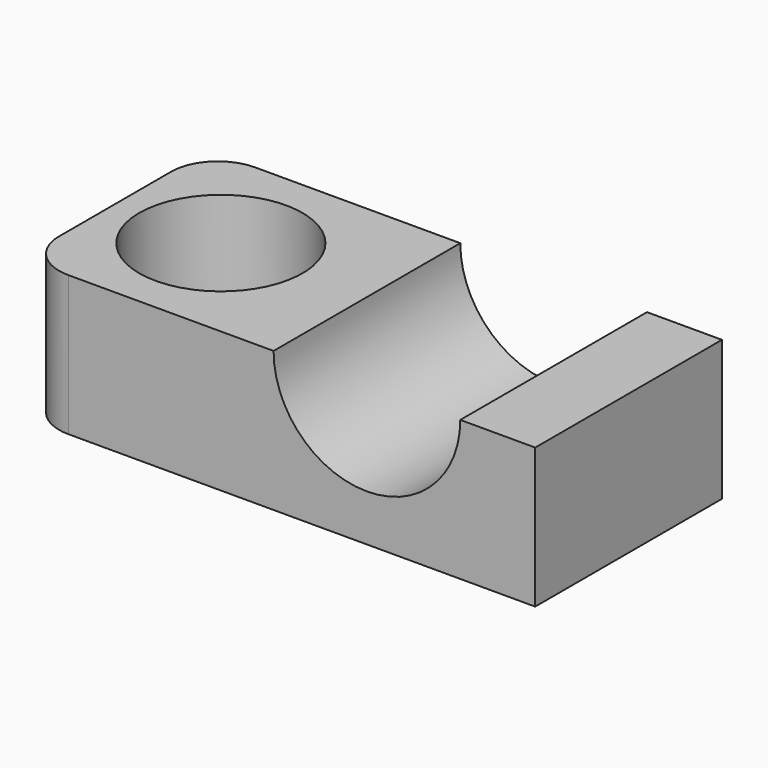
from build123d import *

# Parameters (mm, degrees)
F1_DEPTH = 25
F2_R     = 5
F4_D     = 17.5


with BuildPart() as f1:
    # F0 (on Front) → F1 (new body)
    with BuildSketch(Plane.XZ):
        with BuildLine():
            Line((-33.945313, 0), (21.054687, 0))
            Line((21.054687, 0), (21.054687, 15))
            Line((21.054687, 15), (13.028848, 15))
            ThreePointArc((13.028848, 15), (3.028848, 5), (-6.971152, 15))
            Line((-6.971152, 15), (-33.945313, 15))
            Line((-33.945313, 15), (-33.945313, 0))
        make_face()
    extrude(amount=F1_DEPTH)

    # F2
    f2_edges = [f1.edges().sort_by_distance(p)[0] for p in [
        (-33.945313, -25, 7.5),
        (-33.945313, 0, 7.5),
    ]]
    fillet(f2_edges, radius=F2_R)

    # F4 (through all)
    with Locations(Plane.XY.offset(15)):
        with Locations((-22.615639, -12.5)):
            Hole(F4_D / 2)


solid = f1.part
